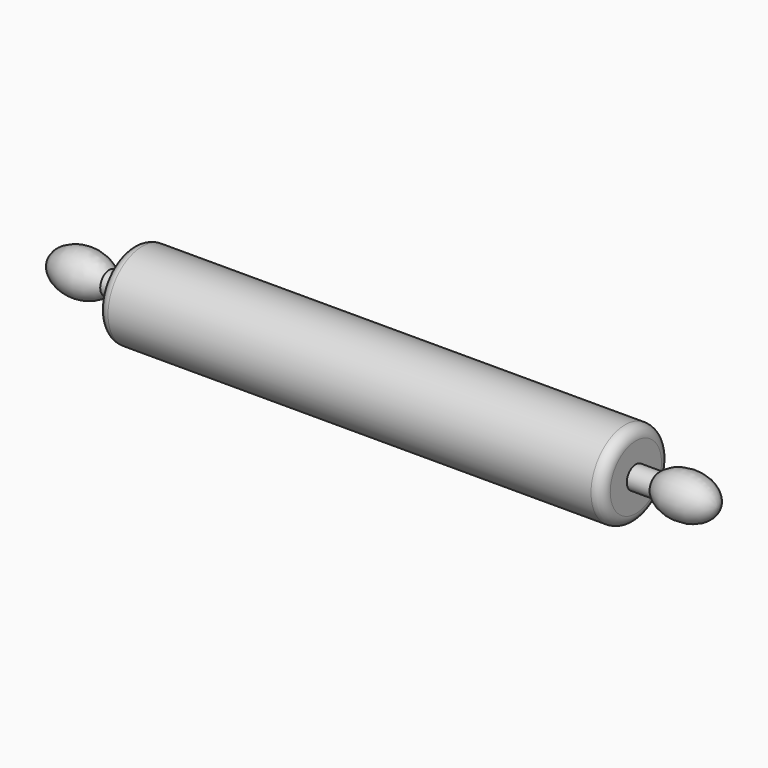
from build123d import *


with BuildPart() as f1:
    # F0 (on Front) → F1 (revolve)
    with BuildSketch(Plane.XZ):
        with BuildLine():
            Line((177.7100403875, 25.4), (-109.5893596125, 25.4))
            ThreePointArc((-109.5893596125, 25.4), (-114.0794876731, 23.5401280605), (-115.9393596125, 19.05))
            Line((-115.9393596125, 19.05), (-115.9393596125, 6.7488843738))
            Line((-115.9393596125, 6.7488843738), (-129.1567824918, 6.7488843738))
            add(Edge.make_bspline(
                [(-129.1567824918, 6.7488843738), (-164.315603803, 44.0772259532), (-164.315603803, 0)],
                knots=[3.7022890268, 3.7022890268, 3.7022890268, 6.2831853072, 6.2831853072, 6.2831853072], degree=2, weights=[1, 0.2766902584, 1]))
            Line((-164.315603803, 0), (232.7779510498, 0))
            add(Edge.make_bspline(
                [(232.7779510498, 0), (232.7779510498, 44.1437877656), (197.5903936341, 6.7488843738)],
                knots=[3.1415926536, 3.1415926536, 3.1415926536, 5.7229232388, 5.7229232388, 5.7229232388], degree=2, weights=[1, 0.2764815773, 1]))
            Line((197.5903936341, 6.7488843738), (184.0600403875, 6.7488843738))
            Line((184.0600403875, 6.7488843738), (184.0600403875, 19.05))
            ThreePointArc((184.0600403875, 19.05), (182.200168448, 23.5401280605), (177.7100403875, 25.4))
        make_face()
    revolve(axis=Axis((34.2311736234, 0, 0), (1, 0, 0)))


solid = f1.part
